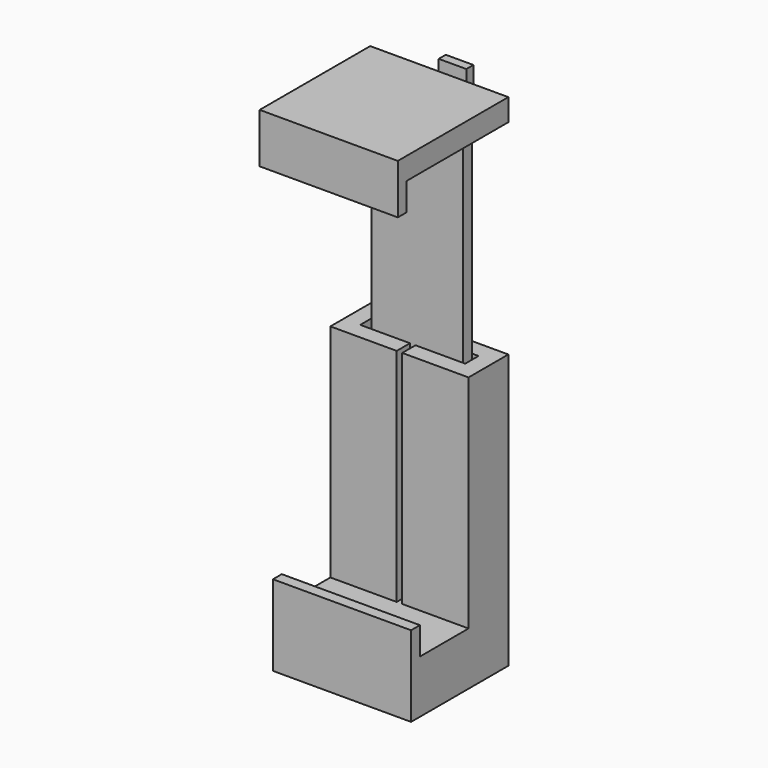
from build123d import *

# Parameters (mm, degrees)
SKETCH001_W             = 25
SKETCH001_H             = 20
PAD_DEPTH               = 4
PAD001_DEPTH            = 40
SKETCH009_W             = 2
SKETCH009_H             = 9
PAD007_DEPTH            = 25
SKETCH010_W             = 25
SKETCH010_H             = 22
SKETCH010_R             = 5.5
PAD008_DEPTH            = 5.6
PAD004_DEPTH            = 2.5
SKETCH003_W             = 25
SKETCH003_H             = 23
PAD002_DEPTH            = 4
SKETCH005_W             = 16.6
SKETCH005_H             = 2
PAD003_DEPTH            = 40
PAD005_DEPTH            = 2.5
SKETCH008_W             = 2
SKETCH008_H             = 9
PAD006_DEPTH            = 25
BODY001_PLACEMENT_ANGLE = 180


with BuildPart() as bottom:
    # Sketch001 → Pad (new body)
    with BuildSketch(Plane.XY):
        with Locations((12.5, 10)):
            Rectangle(SKETCH001_W, SKETCH001_H)
    extrude(amount=PAD_DEPTH)

    # Sketch002 (on DatumPlane) → Pad001 (join)
    with BuildSketch(Plane.XY.offset(4)):
        Polygon((0, 20), (25, 20), (25, 11), (13, 11), (13, 14), (22, 14), (22, 17), (3, 17), (3, 14), (12, 14), (12, 11), (0, 11), align=None)
    extrude(amount=PAD001_DEPTH)

    # Sketch009 → Pad007 (join)
    with BuildSketch(Plane.YZ):
        with Locations((-1, 4.5)):
            Rectangle(SKETCH009_W, SKETCH009_H)
    extrude(amount=PAD007_DEPTH)

    # Sketch010 → Pad008 (join)
    with BuildSketch(Plane.XY):
        with Locations((12.5, 9)):
            Rectangle(SKETCH010_W, SKETCH010_H)
        with Locations((12.5, 9)):
            Circle(SKETCH010_R, mode=Mode.SUBTRACT)
    extrude(amount=-PAD008_DEPTH)

    # Sketch006 (on DatumPlane) → Pad004 (join, symmetric)
    with BuildSketch(Plane.YZ.offset(12.5)):
        Polygon((20, -0.6), (24.6, -0.6), (24.6, -5.6), (23, -5.6), (23, -2.2), (20, -2.2), align=None)
    extrude(amount=PAD004_DEPTH, both=True)


with BuildPart() as top:
    # Sketch003 → Pad002 (new body)
    with BuildSketch(Plane.XY):
        with Locations((12.5, 11.5)):
            Rectangle(SKETCH003_W, SKETCH003_H)
    extrude(amount=PAD002_DEPTH)

    # Sketch005 (on DatumPlane) → Pad003 (join)
    with BuildSketch(Plane.XY.offset(4)):
        with Locations((12.5, 19)):
            Rectangle(SKETCH005_W, SKETCH005_H)
    extrude(amount=PAD003_DEPTH)

    # Sketch007 (on DatumPlane) → Pad005 (join, symmetric)
    with BuildSketch(Plane.YZ.offset(12.5)):
        Polygon((23, 4), (27.6, 4), (27.6, 0), (26, 0), (26, 2.4), (23, 2.4), align=None)
    extrude(amount=PAD005_DEPTH, both=True)

    # Sketch008 → Pad006 (join)
    with BuildSketch(Plane.YZ):
        with Locations((-1, 4.5)):
            Rectangle(SKETCH008_W, SKETCH008_H)
    extrude(amount=PAD006_DEPTH)


with BuildPart() as top_1:
    # Body001 placement: moved
    add(top.part.moved(Location((25, -3, 85))).rotate(Axis((25, -3, 85), (0, 1, 0)), BODY001_PLACEMENT_ANGLE))


solid = Compound([bottom.part, top_1.part])
